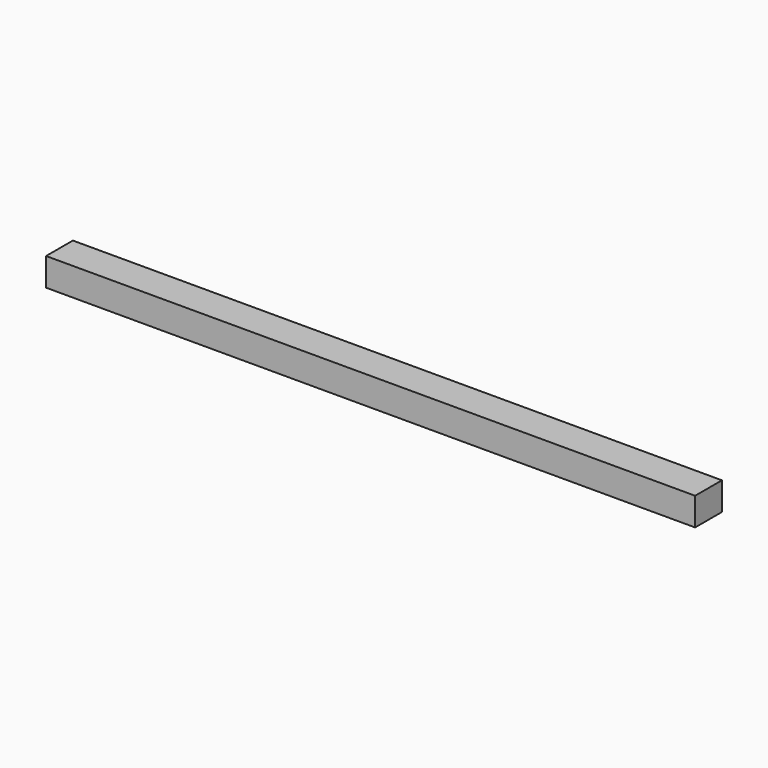
from build123d import *

# Parameters (mm, degrees)
F0_W     = 465
F0_H     = 18
F0_W_2   = 457
F0_H_2   = 10
F0_H_3   = 6
F1_DEPTH = 20
F2_START = 10
F2_DEPTH = 10


with BuildPart() as f1:
    # F0 (on Top) → F1 (new body)
    with BuildSketch(Plane.XY):
        with Locations((252.0387396961, -41.0362935066)):
            Rectangle(F0_W, F0_H)
        with Locations((252.0387396961, -41.0362935066)):
            Rectangle(F0_W_2, F0_H_2, mode=Mode.SUBTRACT)
        with Locations((252.0387396961, -53.0362935066)):
            Rectangle(F0_W, F0_H_3)
        with Locations((252.0387396961, -41.0362935066)):
            Rectangle(F0_W, F0_H)
        with Locations((252.0387396961, -41.0362935066)):
            Rectangle(F0_W_2, F0_H_2, mode=Mode.SUBTRACT)
    extrude(amount=F1_DEPTH)

    # F0 (on Top) → F2 (join)
    with BuildSketch(Plane.XY.offset(F2_START)):
        with Locations((252.0387396961, -41.0362935066)):
            Rectangle(F0_W_2, F0_H_2)
    extrude(amount=F2_DEPTH)


solid = f1.part
